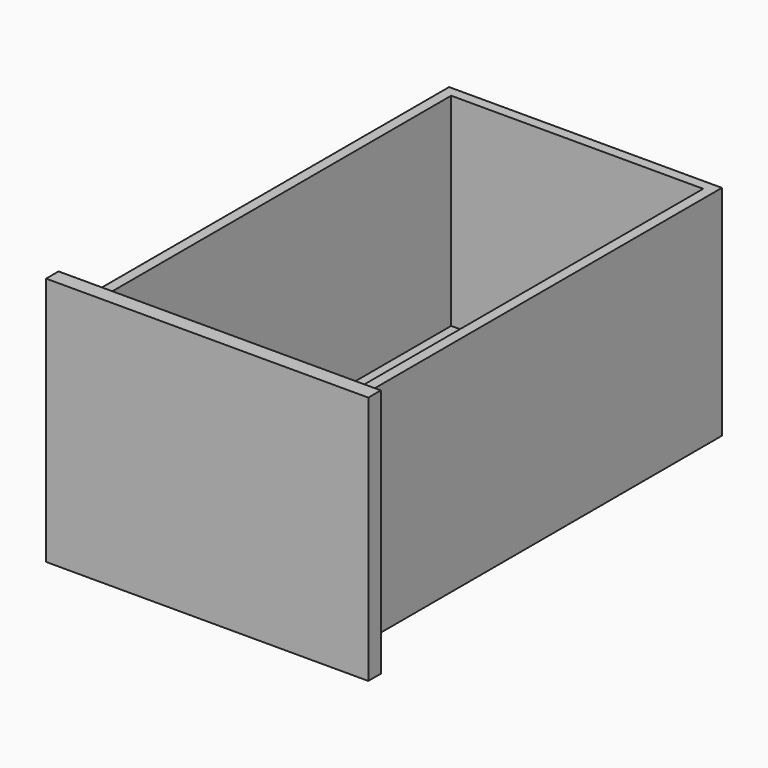
from build123d import *

# Parameters (mm, degrees)
F0_W     = 393.7
F0_H     = 304.8
F1_DEPTH = 19.05
F2_W     = 333.375
F2_H     = 266.7
F3_DEPTH = 558.8
F4_W     = 307.975
F4_H     = 533.4
F5_DEPTH = 247.65
F6_W     = 307.975
F6_H     = 533.4
F7_DEPTH = 6.35


with BuildPart() as f1:
    # F0 (on Front) → F1 (new body)
    with BuildSketch(Plane.XZ):
        Rectangle(F0_W, F0_H)
    extrude(amount=F1_DEPTH)

    # F2 (on face) → F3 (join)
    with BuildSketch(Plane(origin=(0, 0, 0), x_dir=(-1, 0, 0), z_dir=(0, 1, 0))):
        Rectangle(F2_W, F2_H)
    extrude(amount=F3_DEPTH)

    # F4 (on face) → F5 (cut)
    with BuildSketch(Plane.XY.offset(133.35)):
        with Locations((0, 279.4)):
            Rectangle(F4_W, F4_H)
    extrude(amount=-F5_DEPTH, mode=Mode.SUBTRACT)

    # F6 (on face) → F7 (cut)
    with BuildSketch(Plane(origin=(0, 0, -133.35), x_dir=(1, 0, 0), z_dir=(0, 0, -1))):
        with Locations((0, -279.4)):
            Rectangle(F6_W, F6_H)
    extrude(amount=-F7_DEPTH, mode=Mode.SUBTRACT)


solid = f1.part
